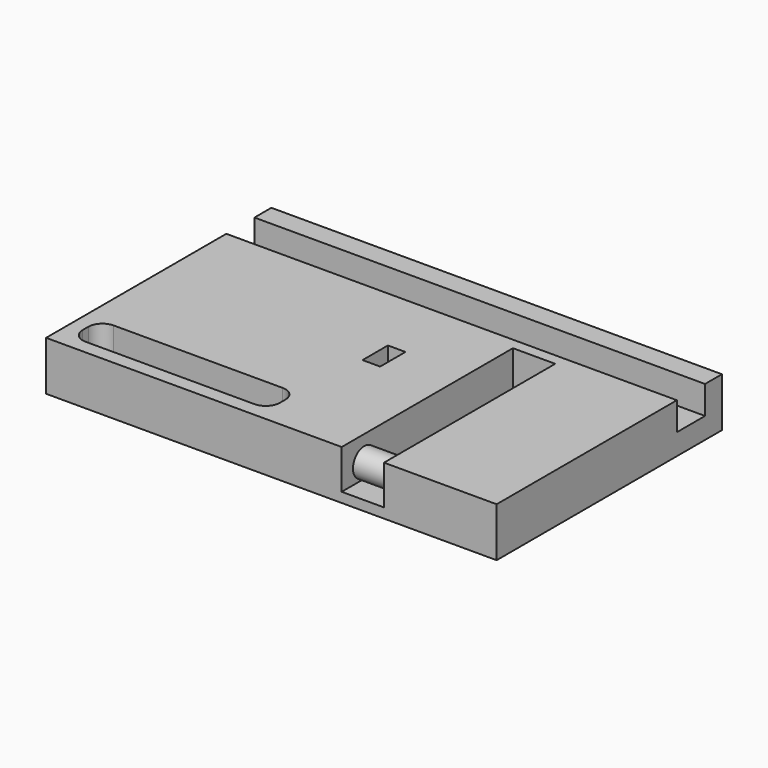
from build123d import *

# Parameters (mm, degrees)
F0_W     = 7.9375
F0_H     = 14.2875
F1_DEPTH = 9.525
F2_DEPTH = 22.225
F3_R     = 6.35
F4_DEPTH = 80.518
F0_W_2   = 19.0754
F0_H_2   = 96.52
F5_DEPTH = 4.445
F6_R     = 2.54
F7_DEPTH = 12.7


with BuildPart() as f1:
    # F0 (on Top) → F1 (new body)
    with BuildSketch(Plane.XY):
        Polygon((-101.6, 38.1), (-101.6, -63.5), (31.7246, -63.5), (31.7246, 33.02), (50.8, 33.02), (50.8, -63.5), (101.6, -63.5), (101.6, 38.1), (3.0768760622, 38.1), (-3.0768760622, 38.1), align=None)
        with BuildLine():
            Line((-56.3626, -57.15), (-88.9, -57.15))
            ThreePointArc((-88.9, -57.15), (-93.3901280605, -55.2901280605), (-95.25, -50.8))
            Line((-95.25, -50.8), (-95.25, -47.625))
            ThreePointArc((-95.25, -47.625), (-93.3901280605, -43.1348719395), (-88.9, -41.275))
            Line((-88.9, -41.275), (-56.3626, -41.275))
            Line((-56.3626, -41.275), (-45.2374, -41.275))
            Line((-45.2374, -41.275), (-12.7, -41.275))
            ThreePointArc((-12.7, -41.275), (-8.2098719395, -43.1348719395), (-6.35, -47.625))
            Line((-6.35, -47.625), (-6.35, -50.8))
            ThreePointArc((-6.35, -50.8), (-8.2098719395, -55.2901280605), (-12.7, -57.15))
            Line((-12.7, -57.15), (-45.2374, -57.15))
            Line((-45.2374, -57.15), (-56.3626, -57.15))
        make_face(mode=Mode.SUBTRACT)
        Rectangle(F0_W, F0_H, mode=Mode.SUBTRACT)
        Polygon((-101.6, 63.5), (-101.6, 53.975), (-3.0768760622, 53.975), (3.0768760622, 53.975), (101.6, 53.975), (101.6, 63.5), align=None)
        with BuildLine():
            Line((-101.6, 53.975), (-101.6, 38.1))
            Line((-101.6, 38.1), (-3.0768760622, 38.1))
            ThreePointArc((-3.0768760622, 38.1), (-4.8300581867, 38.8261918133), (-5.55625, 40.5793739378))
            Line((-5.55625, 40.5793739378), (-5.55625, 51.4956260622))
            ThreePointArc((-5.55625, 51.4956260622), (-4.8300581867, 53.2488081867), (-3.0768760622, 53.975))
            Line((-3.0768760622, 53.975), (-101.6, 53.975))
        make_face()
        with BuildLine():
            ThreePointArc((5.55625, 40.5793739378), (4.8300581867, 38.8261918133), (3.0768760622, 38.1))
            Line((3.0768760622, 38.1), (101.6, 38.1))
            Line((101.6, 38.1), (101.6, 53.975))
            Line((101.6, 53.975), (3.0768760622, 53.975))
            ThreePointArc((3.0768760622, 53.975), (4.8300581867, 53.2488081867), (5.55625, 51.4956260622))
            Line((5.55625, 51.4956260622), (5.55625, 40.5793739378))
        make_face()
        with BuildLine():
            ThreePointArc((-95.25, -50.8), (-93.3901280605, -55.2901280605), (-88.9, -57.15))
            Line((-88.9, -57.15), (-56.3626, -57.15))
            Line((-56.3626, -57.15), (-56.3626, -41.275))
            Line((-56.3626, -41.275), (-88.9, -41.275))
            ThreePointArc((-88.9, -41.275), (-93.3901280605, -43.1348719395), (-95.25, -47.625))
            Line((-95.25, -47.625), (-95.25, -50.8))
        make_face()
        with BuildLine():
            Line((-45.2374, -41.275), (-45.2374, -57.15))
            Line((-45.2374, -57.15), (-12.7, -57.15))
            ThreePointArc((-12.7, -57.15), (-8.2098719395, -55.2901280605), (-6.35, -50.8))
            Line((-6.35, -50.8), (-6.35, -47.625))
            ThreePointArc((-6.35, -47.625), (-8.2098719395, -43.1348719395), (-12.7, -41.275))
            Line((-12.7, -41.275), (-45.2374, -41.275))
        make_face()
    extrude(amount=F1_DEPTH)

    # F0 (on Top) → F2 (join)
    with BuildSketch(Plane.XY):
        Polygon((-101.6, 63.5), (-101.6, 53.975), (-3.0768760622, 53.975), (3.0768760622, 53.975), (101.6, 53.975), (101.6, 63.5), align=None)
        Polygon((-101.6, 38.1), (-101.6, -63.5), (31.7246, -63.5), (31.7246, 33.02), (50.8, 33.02), (50.8, -63.5), (101.6, -63.5), (101.6, 38.1), (3.0768760622, 38.1), (-3.0768760622, 38.1), align=None)
        with BuildLine():
            Line((-56.3626, -57.15), (-88.9, -57.15))
            ThreePointArc((-88.9, -57.15), (-93.3901280605, -55.2901280605), (-95.25, -50.8))
            Line((-95.25, -50.8), (-95.25, -47.625))
            ThreePointArc((-95.25, -47.625), (-93.3901280605, -43.1348719395), (-88.9, -41.275))
            Line((-88.9, -41.275), (-56.3626, -41.275))
            Line((-56.3626, -41.275), (-45.2374, -41.275))
            Line((-45.2374, -41.275), (-12.7, -41.275))
            ThreePointArc((-12.7, -41.275), (-8.2098719395, -43.1348719395), (-6.35, -47.625))
            Line((-6.35, -47.625), (-6.35, -50.8))
            ThreePointArc((-6.35, -50.8), (-8.2098719395, -55.2901280605), (-12.7, -57.15))
            Line((-12.7, -57.15), (-45.2374, -57.15))
            Line((-45.2374, -57.15), (-56.3626, -57.15))
        make_face(mode=Mode.SUBTRACT)
        Rectangle(F0_W, F0_H, mode=Mode.SUBTRACT)
    extrude(amount=F2_DEPTH)

    # F3 (on face) → F4 (join)
    with BuildSketch(Plane.YZ.offset(101.6)):
        with Locations((-50.8, 11.1125)):
            Circle(F3_R)
    extrude(amount=-F4_DEPTH)

    # F0 (on Top) → F5 (join)
    with BuildSketch(Plane.XY):
        with Locations((41.2623, -15.24)):
            Rectangle(F0_W_2, F0_H_2)
    extrude(amount=F5_DEPTH)

    # F6 (on face) → F7 (cut)
    with BuildSketch(Plane.XY):
        with Locations((-98.425, 0)):
            Circle(F6_R)
        with Locations((98.425, 0)):
            Circle(F6_R)
    extrude(amount=F7_DEPTH, mode=Mode.SUBTRACT)


solid = f1.part
